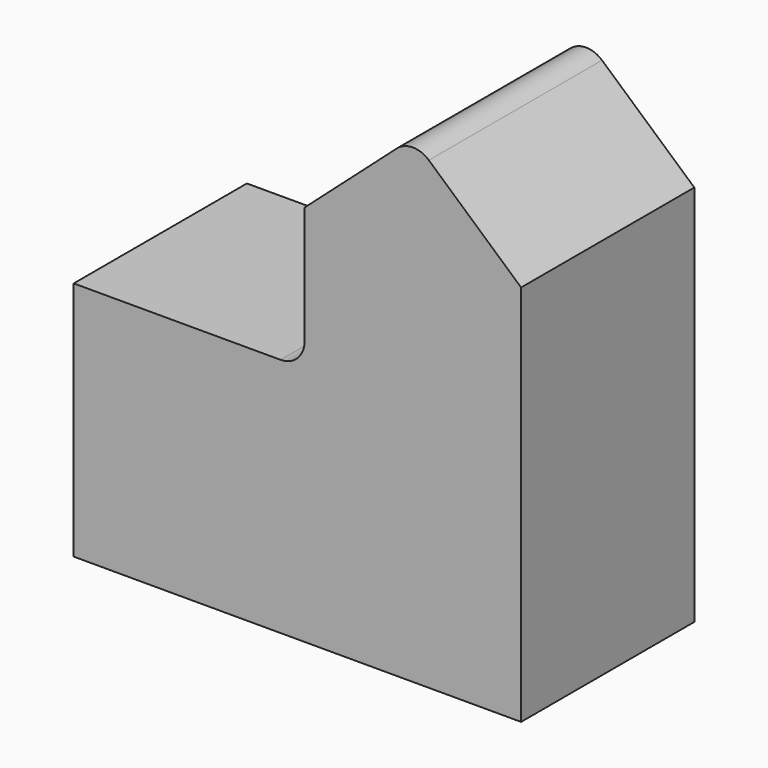
from build123d import *

# Parameters (mm, degrees)
F0_W     = 18.6
F0_H     = 9
F1_DEPTH = 10
F2_W     = 9
F2_H     = 9
F3_DEPTH = 5.9
F5_DEPTH = 9
F6_R     = 1


with BuildPart() as f1:
    # F0 (on Top) → F1 (new body)
    with BuildSketch(Plane.XY):
        with Locations((-9.3, -4.5)):
            Rectangle(F0_W, F0_H)
    extrude(amount=F1_DEPTH)

    # F2 (on face) → F3 (join)
    with BuildSketch(Plane.XY.offset(10)):
        with Locations((-4.5, -4.5)):
            Rectangle(F2_W, F2_H)
    extrude(amount=F3_DEPTH)

    # F4 (on face) → F5 (join, through all)
    with BuildSketch(Plane.XZ.offset(9)):
        Polygon((-4.5, 19.9), (-9, 15.9), (0, 15.9), align=None)
    extrude(amount=-F5_DEPTH)

    # F6
    f6_edges = [f1.edges().sort_by_distance(p)[0] for p in [
        (-4.5, -4.5, 19.9),
        (-9, -4.5, 10),
    ]]
    fillet(f6_edges, radius=F6_R)


solid = f1.part
